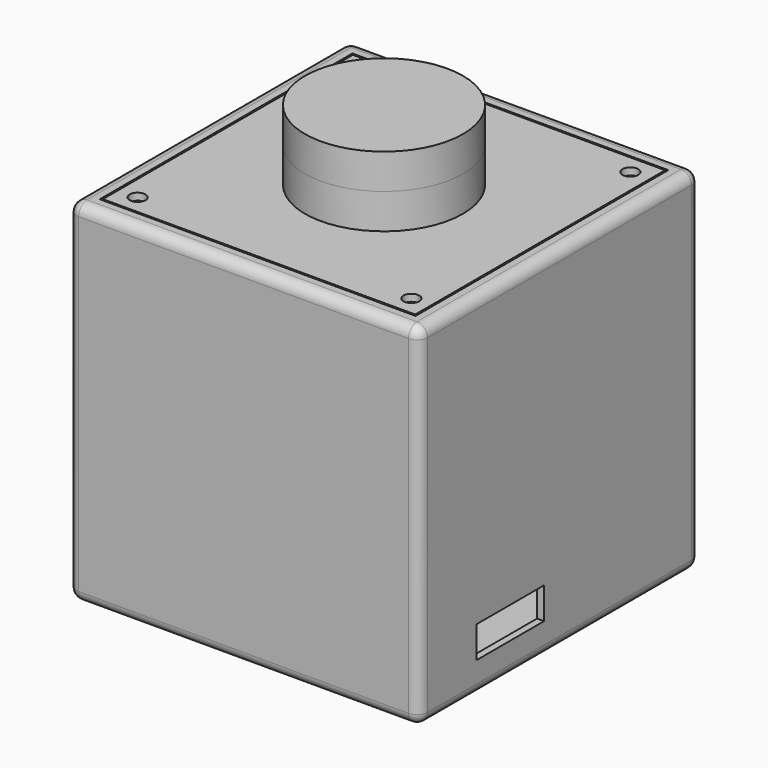
from build123d import *

# Parameters (mm, degrees)
SKETCH_W                        = 100
SKETCH_H                        = 100
PAD_DEPTH                       = 100
SKETCH001_W                     = 90
SKETCH001_H                     = 90
POCKET_DEPTH                    = 95
POCKET001_DEPTH                 = 45
SKETCH003_R                     = 4
SKETCH003_R_2                   = 1
SKETCH003_R_3                   = 2.75
PAD001_DEPTH                    = 10
SKETCH004_W                     = 24
SKETCH004_H                     = 9
POCKET002_DEPTH                 = 5
SKETCH005_W                     = 5
SKETCH005_H                     = 10
POCKET003_DEPTH                 = 6
SKETCH006_W                     = 15
SKETCH006_H                     = 25
POCKET004_DEPTH                 = 3
SKETCH007_R                     = 1
POCKET005_DEPTH                 = 4
POCKET006_DEPTH                 = 6
POCKET006_LINEARPATTERN_2_DEPTH = 6
POCKET006_LINEARPATTERN_3_DEPTH = 6
POCKET006_LINEARPATTERN_4_DEPTH = 6
LINEARPATTERN001_COUNT          = 2
LINEARPATTERN001_PITCH          = 22
SKETCH009_R                     = 1
POCKET007_DEPTH                 = 4
SKETCH010_R                     = 1
POCKET008_DEPTH                 = 4
PAD002_DEPTH                    = 12
PAD002_MIRRORED001_2_DEPTH      = 12
LINEARPATTERN002_COUNT          = 2
LINEARPATTERN002_PITCH          = 78
SKETCH012_R                     = 1
POCKET009_DEPTH                 = 10
POCKET010_DEPTH                 = 20
FILLET_R                        = 3
SKETCH014_W                     = 89
SKETCH014_H                     = 89
PAD003_DEPTH                    = 5
SKETCH015_R                     = 1.4
POCKET011_DEPTH                 = 6
SKETCH017_R                     = 2.25
POCKET012_DEPTH                 = 2
SKETCH018_R                     = 11.2
POCKET013_DEPTH                 = 3.5
SKETCH019_W                     = 47
SKETCH019_H                     = 38
SKETCH019_W_2                   = 42
SKETCH019_H_2                   = 31
POCKET014_DEPTH                 = 2
SKETCH020_R                     = 0.95
POCKET015_DEPTH                 = 4
SKETCH021_R                     = 1.4
PAD004_DEPTH                    = 4
SKETCH022_R                     = 5
PAD005_DEPTH                    = 2.5
SKETCH023_R                     = 1.4
PAD006_DEPTH                    = 7
SKETCH024_W                     = 15
SKETCH024_H                     = 18.5
POCKET016_DEPTH                 = 4.5
SKETCH025_R                     = 1.4
PAD007_DEPTH                    = 16
SKETCH026_W                     = 52
SKETCH026_H                     = 33.8
POCKET017_DEPTH                 = 11
SKETCH027_W                     = 82.97
SKETCH027_H                     = 15.82
POCKET018_DEPTH                 = 1.5
SKETCH028_W                     = 12
SKETCH028_H                     = 20
SKETCH028_W_2                   = 2.4
SKETCH028_H_2                   = 2.4
PAD008_DEPTH                    = 5
SKETCH029_W                     = 4.5
SKETCH029_H                     = 4
PAD009_DEPTH                    = 5
SKETCH030_R                     = 22.5
PAD010_DEPTH                    = 10
POCKET019_DEPTH                 = 8
SKETCH032_R                     = 1.4
POCKET020_DEPTH                 = 12
SKETCH033_R                     = 22.5
PAD011_DEPTH                    = 10
SKETCH035_R                     = 0.95
POCKET021_DEPTH                 = 8


with BuildPart() as box:
    # Sketch → Pad (new body)
    with BuildSketch(Plane.XY):
        Rectangle(SKETCH_W, SKETCH_H)
    extrude(amount=PAD_DEPTH)

    # Sketch001 (on Face6 of Pad) → Pocket (cut)
    with BuildSketch(Plane.XY.offset(100)):
        Rectangle(SKETCH001_W, SKETCH001_H)
    extrude(amount=-POCKET_DEPTH, mode=Mode.SUBTRACT)

    # Sketch002 → Pocket001 (cut)
    with BuildSketch(Plane.XZ):
        Polygon((28, 5), (48, 5), (48, 23), (28, 43), align=None)
    pocket001 = extrude(amount=-POCKET001_DEPTH, mode=Mode.SUBTRACT)

    # Mirrored: Pocket001 across XZ
    add(pocket001.mirror(Plane.XZ), mode=Mode.SUBTRACT)

    # Sketch003 (on Face11 of Mirrored) → Pad001 (join)
    with BuildSketch(Plane.XY.offset(5)):
        with Locations((-23, 36)):
            Circle(SKETCH003_R)
        with Locations((-23, 36)):
            Circle(SKETCH003_R_2, mode=Mode.SUBTRACT)
        with Locations((38, 36)):
            Circle(SKETCH003_R_3)
        with Locations((38, 36)):
            Circle(SKETCH003_R_2, mode=Mode.SUBTRACT)
        with Locations((44, -36)):
            Circle(SKETCH003_R_3)
        with Locations((44, -36)):
            Circle(SKETCH003_R_2, mode=Mode.SUBTRACT)
        with Locations((-23, -36)):
            Circle(SKETCH003_R_3)
        with Locations((-23, -36)):
            Circle(SKETCH003_R_2, mode=Mode.SUBTRACT)
    extrude(amount=PAD001_DEPTH)

    # Sketch004 (on Face23 of Pad001) → Pocket002 (cut)
    with BuildSketch(Plane(origin=(48, 0, 0), x_dir=(0, -1, 0), z_dir=(-1, 0, 0))):
        with Locations((17.5, 13.5)):
            Rectangle(SKETCH004_W, SKETCH004_H)
    extrude(amount=-POCKET002_DEPTH, mode=Mode.SUBTRACT)

    # Sketch005 (on Face16 of Pocket002) → Pocket003 (cut)
    with BuildSketch(Plane.XY.offset(5)):
        with Locations((16.5, -3)):
            Rectangle(SKETCH005_W, SKETCH005_H)
    extrude(amount=-POCKET003_DEPTH, mode=Mode.SUBTRACT)

    # Sketch006 (on Face4 of Pocket003) → Pocket004 (cut)
    with BuildSketch(Plane(origin=(0, 0, 0), x_dir=(1, 0, 0), z_dir=(0, 0, -1))):
        with Locations((16.5, 3)):
            Rectangle(SKETCH006_W, SKETCH006_H)
    extrude(amount=-POCKET004_DEPTH, mode=Mode.SUBTRACT)

    # Sketch007 (on Face15 of Pocket004) → Pocket005 (cut)
    with BuildSketch(Plane.YZ.offset(-45)):
        with Locations((-31.75, 62.25)):
            Circle(SKETCH007_R)
        with Locations((31.75, 62.25)):
            Circle(SKETCH007_R)
        with Locations((-31.75, 37.75)):
            Circle(SKETCH007_R)
        with Locations((31.75, 37.75)):
            Circle(SKETCH007_R)
    extrude(amount=-POCKET005_DEPTH, mode=Mode.SUBTRACT)

    # Sketch008 (on Face15 of Pocket005) → Pocket006 (cut)
    with BuildSketch(Plane.YZ.offset(-45)):
        with BuildLine():
            ThreePointArc((1.5, 62.5), (0, 64), (-1.5, 62.5))
            Line((-1.5, 62.5), (-1.5, 37.5))
            ThreePointArc((-1.5, 37.5), (0, 36), (1.5, 37.5))
            Line((1.5, 37.5), (1.5, 62.5))
        make_face()
    pocket006 = extrude(amount=-POCKET006_DEPTH, mode=Mode.SUBTRACT)

    # Sketch008 LinearPattern 2 → Pocket006 LinearPattern 2 (cut)
    with BuildSketch(Plane(origin=(-45, 7.333333, 0), x_dir=(0, 1, 0), z_dir=(1, 0, 0))):
        with BuildLine():
            ThreePointArc((1.5, 62.5), (0, 64), (-1.5, 62.5))
            Line((-1.5, 62.5), (-1.5, 37.5))
            ThreePointArc((-1.5, 37.5), (0, 36), (1.5, 37.5))
            Line((1.5, 37.5), (1.5, 62.5))
        make_face()
    pocket006_linearpattern_2 = extrude(amount=-POCKET006_LINEARPATTERN_2_DEPTH, mode=Mode.SUBTRACT)

    # Sketch008 LinearPattern 3 → Pocket006 LinearPattern 3 (cut)
    with BuildSketch(Plane(origin=(-45, 14.666667, 0), x_dir=(0, 1, 0), z_dir=(1, 0, 0))):
        with BuildLine():
            ThreePointArc((1.5, 62.5), (0, 64), (-1.5, 62.5))
            Line((-1.5, 62.5), (-1.5, 37.5))
            ThreePointArc((-1.5, 37.5), (0, 36), (1.5, 37.5))
            Line((1.5, 37.5), (1.5, 62.5))
        make_face()
    pocket006_linearpattern_3 = extrude(amount=-POCKET006_LINEARPATTERN_3_DEPTH, mode=Mode.SUBTRACT)

    # Sketch008 LinearPattern 4 → Pocket006 LinearPattern 4 (cut)
    with BuildSketch(Plane(origin=(-45, 22, 0), x_dir=(0, 1, 0), z_dir=(1, 0, 0))):
        with BuildLine():
            ThreePointArc((1.5, 62.5), (0, 64), (-1.5, 62.5))
            Line((-1.5, 62.5), (-1.5, 37.5))
            ThreePointArc((-1.5, 37.5), (0, 36), (1.5, 37.5))
            Line((1.5, 37.5), (1.5, 62.5))
        make_face()
    pocket006_linearpattern_4 = extrude(amount=-POCKET006_LINEARPATTERN_4_DEPTH, mode=Mode.SUBTRACT)

    # LinearPattern001: Pocket006, Pocket006 LinearPattern 2, Pocket006 LinearPattern 3, Pocket006 LinearPattern 4 ×2
    with Locations(*[(0, -i * LINEARPATTERN001_PITCH, 0) for i in range(1, LINEARPATTERN001_COUNT)]):
        add(pocket006, mode=Mode.SUBTRACT)
        add(pocket006_linearpattern_2, mode=Mode.SUBTRACT)
        add(pocket006_linearpattern_3, mode=Mode.SUBTRACT)
        add(pocket006_linearpattern_4, mode=Mode.SUBTRACT)

    # Sketch009 (on Face45 of MultiTransform) → Pocket007 (cut)
    with BuildSketch(Plane(origin=(45, 0, 0), x_dir=(0, -1, 0), z_dir=(-1, 0, 0))):
        with Locations((0, 80)):
            Circle(SKETCH009_R)
        with Locations((0, 35)):
            Circle(SKETCH009_R)
    extrude(amount=-POCKET007_DEPTH, mode=Mode.SUBTRACT)

    # Sketch010 (on Face46 of Pocket007) → Pocket008 (cut)
    with BuildSketch(Plane.XZ.offset(-45)):
        with Locations((0, 85)):
            Circle(SKETCH010_R)
        with Locations((0, 60)):
            Circle(SKETCH010_R)
    extrude(amount=-POCKET008_DEPTH, mode=Mode.SUBTRACT)

    # Sketch011 (on Face46 of Pocket008) → Pad002 (join)
    with BuildSketch(Plane.XZ.offset(-45)):
        Polygon((-45, 95), (-33, 95), (-33, 85), (-45, 73), align=None)
    pad002 = extrude(amount=PAD002_DEPTH)

    # Sketch011 Mirrored001 2 → Pad002 Mirrored001 2 (add)
    with BuildSketch(Plane(origin=(0, 45, 0), x_dir=(-1, 0, 0), z_dir=(0, 1, 0))):
        Polygon((-45, 95), (-33, 95), (-33, 85), (-45, 73), align=None)
    pad002_mirrored001_2 = extrude(amount=-PAD002_MIRRORED001_2_DEPTH)

    # LinearPattern002: Pad002, Pad002 Mirrored001 2 ×2
    with Locations(*[(0, -i * LINEARPATTERN002_PITCH, 0) for i in range(1, LINEARPATTERN002_COUNT)]):
        add(pad002)
        add(pad002_mirrored001_2)

    # Sketch012 (on Face55 of MultiTransform001) → Pocket009 (cut)
    with BuildSketch(Plane.XY.offset(95)):
        with Locations((-39, 39)):
            Circle(SKETCH012_R)
        with Locations((39, 39)):
            Circle(SKETCH012_R)
        with Locations((39, -39)):
            Circle(SKETCH012_R)
        with Locations((-39, -39)):
            Circle(SKETCH012_R)
    extrude(amount=-POCKET009_DEPTH, mode=Mode.SUBTRACT)

    # Sketch013 (on Face70 of Pocket009) → Pocket010 (cut)
    with BuildSketch(Plane.XY.offset(95)):
        Polygon((32, 42), (42, 32), (32, 32), align=None)
    extrude(amount=-POCKET010_DEPTH, mode=Mode.SUBTRACT)

    # Fillet
    fillet_edges = [box.edges().sort_by_distance(p)[0] for p in [
        (50, -50, 50),
        (50, 50, 50),
        (-50, 50, 50),
        (-50, -50, 50),
        (50, 0, 100),
        (0, 50, 100),
        (-50, 0, 100),
        (0, -50, 100),
        (-50, 0, 0),
        (0, -50, 0),
        (50, 0, 0),
        (0, 50, 0),
    ]]
    fillet(fillet_edges, radius=FILLET_R)


with BuildPart() as deckel:
    # Sketch014 (on Face75 of ShapeBinder) → Pad003 (new body)
    with BuildSketch(Plane.XY.offset(95)):
        Rectangle(SKETCH014_W, SKETCH014_H)
    extrude(amount=PAD003_DEPTH)

    # Sketch015 (on Face6 of Pad003) → Pocket011 (cut)
    with BuildSketch(Plane.XY.offset(100)):
        with Locations((-39, 39)):
            Circle(SKETCH015_R)
        with Locations((39, 39)):
            Circle(SKETCH015_R)
        with Locations((39, -39)):
            Circle(SKETCH015_R)
        with Locations((-39, -39)):
            Circle(SKETCH015_R)
    extrude(amount=-POCKET011_DEPTH, mode=Mode.SUBTRACT)

    # Sketch017 (on Face5 of Pocket011) → Pocket012 (cut)
    with BuildSketch(Plane.XY.offset(100)):
        with Locations((-39, 39)):
            Circle(SKETCH017_R)
        with Locations((39, 39)):
            Circle(SKETCH017_R)
        with Locations((39, -39)):
            Circle(SKETCH017_R)
        with Locations((-39, -39)):
            Circle(SKETCH017_R)
    extrude(amount=-POCKET012_DEPTH, mode=Mode.SUBTRACT)

    # Sketch018 (on Face4 of Pocket012) → Pocket013 (cut)
    with BuildSketch(Plane(origin=(0, 0, 95), x_dir=(1, 0, 0), z_dir=(0, 0, -1))):
        Circle(SKETCH018_R)
    extrude(amount=-POCKET013_DEPTH, mode=Mode.SUBTRACT)

    # Sketch019 (on Face4 of Pocket013) → Pocket014 (cut)
    with BuildSketch(Plane(origin=(0, 0, 95), x_dir=(1, 0, 0), z_dir=(0, 0, -1))):
        Rectangle(SKETCH019_W, SKETCH019_H)
        Rectangle(SKETCH019_W_2, SKETCH019_H_2, mode=Mode.SUBTRACT)
    extrude(amount=-POCKET014_DEPTH, mode=Mode.SUBTRACT)

    # Sketch020 (on Face4 of Pocket014) → Pocket015 (cut)
    with BuildSketch(Plane(origin=(0, 0, 95), x_dir=(1, 0, 0), z_dir=(0, 0, -1))):
        with Locations((0, 25)):
            Circle(SKETCH020_R)
        with Locations((0, -25)):
            Circle(SKETCH020_R)
        with Locations((30, 0)):
            Circle(SKETCH020_R)
        with Locations((-30, 0)):
            Circle(SKETCH020_R)
    extrude(amount=-POCKET015_DEPTH, mode=Mode.SUBTRACT)


with BuildPart() as obj1:
    # Sketch021 (on Face4 of ShapeBinder001) → Pad004 (new body)
    with BuildSketch(Plane(origin=(0, 0, 95), x_dir=(1, 0, 0), z_dir=(0, 0, -1))):
        with BuildLine():
            ThreePointArc((-30, 7.5), (-37.5, 0), (-30, -7.5))
            Line((-30, -7.5), (30, -7.5))
            ThreePointArc((30, -7.5), (37.5, 0), (30, 7.5))
            Line((30, 7.5), (-30, 7.5))
        make_face()
        with Locations((-30, 0)):
            Circle(SKETCH021_R, mode=Mode.SUBTRACT)
        with Locations((30, 0)):
            Circle(SKETCH021_R, mode=Mode.SUBTRACT)
    extrude(amount=PAD004_DEPTH)

    # Sketch022 (on Face7 of Pad004) → Pad005 (join)
    with BuildSketch(Plane.XY.offset(95)):
        Circle(SKETCH022_R)
    extrude(amount=PAD005_DEPTH)


with BuildPart() as obj2:
    # Sketch023 (on Face32 of ShapeBinder002) → Pad006 (new body)
    with BuildSketch(Plane.XZ.offset(-45)):
        with BuildLine():
            ThreePointArc((5, 85), (0, 90), (-5, 85))
            Line((-5, 85), (-5, 60))
            ThreePointArc((-5, 60), (0, 55), (5, 60))
            Line((5, 60), (5, 85))
        make_face()
        with Locations((0, 85)):
            Circle(SKETCH023_R, mode=Mode.SUBTRACT)
        with Locations((0, 60)):
            Circle(SKETCH023_R, mode=Mode.SUBTRACT)
    extrude(amount=PAD006_DEPTH)

    # Sketch024 (on Face7 of Pad006) → Pocket016 (cut)
    with BuildSketch(Plane(origin=(0, 45, 0), x_dir=(-1, 0, 0), z_dir=(0, 1, 0))):
        with Locations((0, 72.75)):
            Rectangle(SKETCH024_W, SKETCH024_H)
    extrude(amount=-POCKET016_DEPTH, mode=Mode.SUBTRACT)


with BuildPart() as obj3:
    # Sketch025 (on Face31 of ShapeBinder003) → Pad007 (new body)
    with BuildSketch(Plane(origin=(45, 0, 0), x_dir=(0, -1, 0), z_dir=(-1, 0, 0))):
        with BuildLine():
            ThreePointArc((5, 80), (0, 85), (-5, 80))
            Line((-5, 62.5), (-5, 80))
            Line((-26, 62.5), (-5, 62.5))
            ThreePointArc((-26, 62.5), (-31, 57.5), (-26, 52.5))
            Line((-26, 52.5), (-5, 52.5))
            Line((-5, 52.5), (-5, 35))
            ThreePointArc((-5, 35), (0, 30), (5, 35))
            Line((5, 52.5), (5, 35))
            Line((26, 52.5), (5, 52.5))
            ThreePointArc((26, 52.5), (31, 57.5), (26, 62.5))
            Line((5, 62.5), (26, 62.5))
            Line((5, 80), (5, 62.5))
        make_face()
        with Locations((0, 80)):
            Circle(SKETCH025_R, mode=Mode.SUBTRACT)
        with Locations((0, 35)):
            Circle(SKETCH025_R, mode=Mode.SUBTRACT)
    extrude(amount=PAD007_DEPTH)

    # Sketch026 (on Face15 of Pad007) → Pocket017 (cut)
    with BuildSketch(Plane.YZ.offset(45)):
        with Locations((0, 57.96)):
            Rectangle(SKETCH026_W, SKETCH026_H)
    extrude(amount=-POCKET017_DEPTH, mode=Mode.SUBTRACT)

    # Sketch027 (on Face23 of Pocket017) → Pocket018 (cut)
    with BuildSketch(Plane.YZ.offset(45)):
        with Locations((0, 58.07)):
            Rectangle(SKETCH027_W, SKETCH027_H)
    extrude(amount=-POCKET018_DEPTH, mode=Mode.SUBTRACT)


with BuildPart() as obj4:
    # Sketch028 (on Face72 of ShapeBinder004) → Pad008 (new body)
    with BuildSketch(Plane.XY.offset(5)):
        with Locations((16.5, -3)):
            Rectangle(SKETCH028_W, SKETCH028_H)
        with Locations((16.5, -3)):
            Rectangle(SKETCH028_W_2, SKETCH028_H_2, mode=Mode.SUBTRACT)
    extrude(amount=PAD008_DEPTH)

    # Sketch029 (on Face9 of Pad008) → Pad009 (join)
    with BuildSketch(Plane(origin=(0, 0, 5), x_dir=(1, 0, 0), z_dir=(0, 0, -1))):
        with Locations((16.5, 3)):
            Rectangle(SKETCH029_W, SKETCH029_H)
    extrude(amount=PAD009_DEPTH)


with BuildPart() as obj5:
    # Sketch030 (on Face5 of ShapeBinder005) → Pad010 (new body)
    with BuildSketch(Plane.XY.offset(100)):
        Circle(SKETCH030_R)
    extrude(amount=PAD010_DEPTH)

    # Sketch031 (on Face3 of Pad010) → Pocket019 (cut)
    with BuildSketch(Plane.XY.offset(110)):
        with BuildLine():
            ThreePointArc((0, 14.25), (-14.25, 0), (0, -14.25))
            Line((0, -14.25), (5.5, -14.25))
            Line((5.5, -14.25), (17.72, -5.213358))
            ThreePointArc((17.72, -5.213358), (20.75, 0), (17.72, 5.213358))
            Line((17.72, 5.213358), (5.5, 14.25))
            Line((0, 14.25), (5.5, 14.25))
        make_face()
    extrude(amount=-POCKET019_DEPTH, mode=Mode.SUBTRACT)

    # Sketch032 (on Face3 of Pocket019) → Pocket020 (cut)
    with BuildSketch(Plane.XY.offset(110)):
        with Locations((0, 19)):
            Circle(SKETCH032_R)
        with Locations((0, -19)):
            Circle(SKETCH032_R)
    extrude(amount=-POCKET020_DEPTH, mode=Mode.SUBTRACT)


with BuildPart() as obj6:
    # Sketch033 (on Face3 of ShapeBinder006) → Pad011 (new body)
    with BuildSketch(Plane.XY.offset(110)):
        Circle(SKETCH033_R)
    extrude(amount=PAD011_DEPTH)

    # Sketch035 (on Face2 of Pad011) → Pocket021 (cut)
    with BuildSketch(Plane(origin=(0, 0, 110), x_dir=(1, 0, 0), z_dir=(0, 0, -1))):
        with Locations((0, 19)):
            Circle(SKETCH035_R)
        with Locations((0, -19)):
            Circle(SKETCH035_R)
    extrude(amount=-POCKET021_DEPTH, mode=Mode.SUBTRACT)


solid = Compound([box.part, deckel.part, obj1.part, obj2.part, obj3.part, obj4.part, obj5.part, obj6.part])
